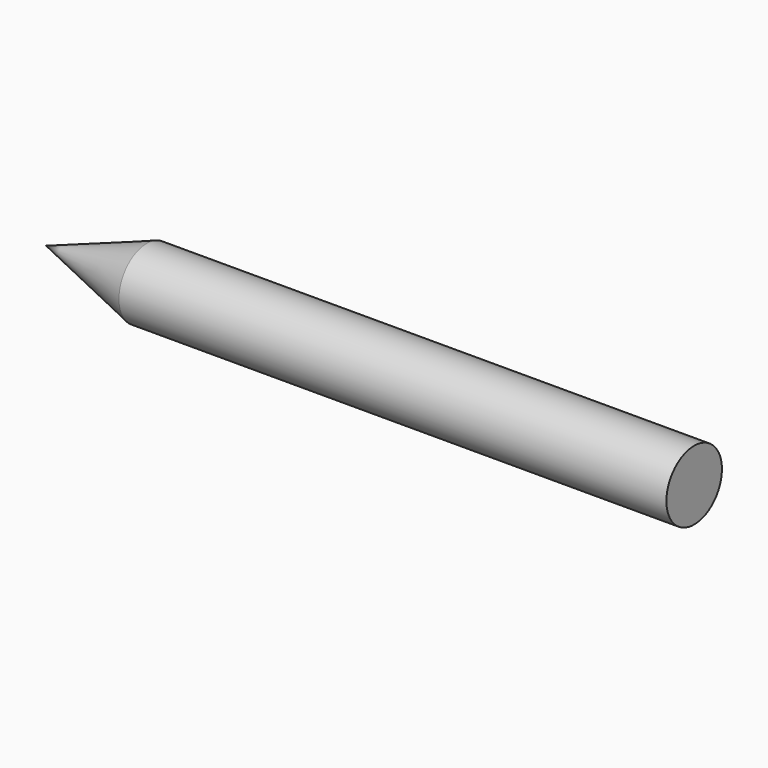
from build123d import *

# Parameters (mm, degrees)
F0_W = 95.9500968456
F0_H = 6.0830971001


with BuildPart() as f1:
    # F0 (on Front) → F1 (revolve)
    with BuildSketch(Plane.XZ):
        with Locations((0, 3.04154855)):
            Rectangle(F0_W, F0_H)
    revolve(axis=Axis((0, 0, 0), (1, 0, 0)))

    # F0 (on Front) → F2 (revolve)
    with BuildSketch(Plane.XZ):
        Polygon((-65.6134485961, 0), (-47.9750484228, 0), (-47.9750484228, 6.0830971001), align=None)
    revolve(axis=Axis((-56.7942485095, 0, 0), (-1, 0, 0)))


solid = f1.part
